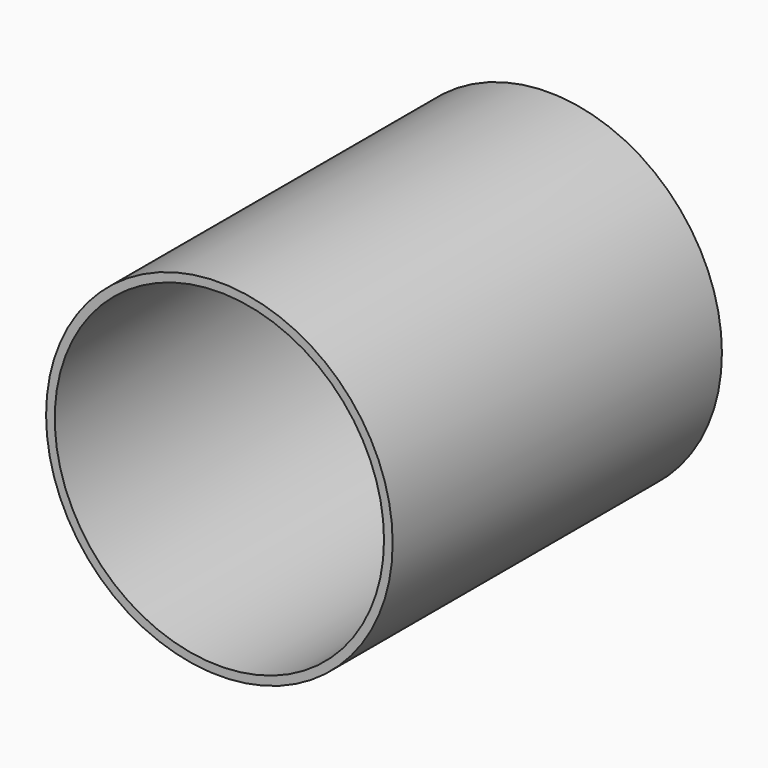
from build123d import *

# Parameters (mm, degrees)
F0_R     = 50.8
F1_DEPTH = 60.325
F2_T     = -2.54


with BuildPart() as f1:
    # F0 (on Front) → F1 (new body, symmetric)
    with BuildSketch(Plane.XZ):
        Circle(F0_R)
    extrude(amount=F1_DEPTH, both=True)

    # F2
    f2_openings = [f1.faces().sort_by_distance(p)[0] for p in [
        (0, 60.325, 0),
        (0, -60.325, 0),
    ]]
    offset(amount=F2_T, openings=f2_openings)


solid = f1.part
